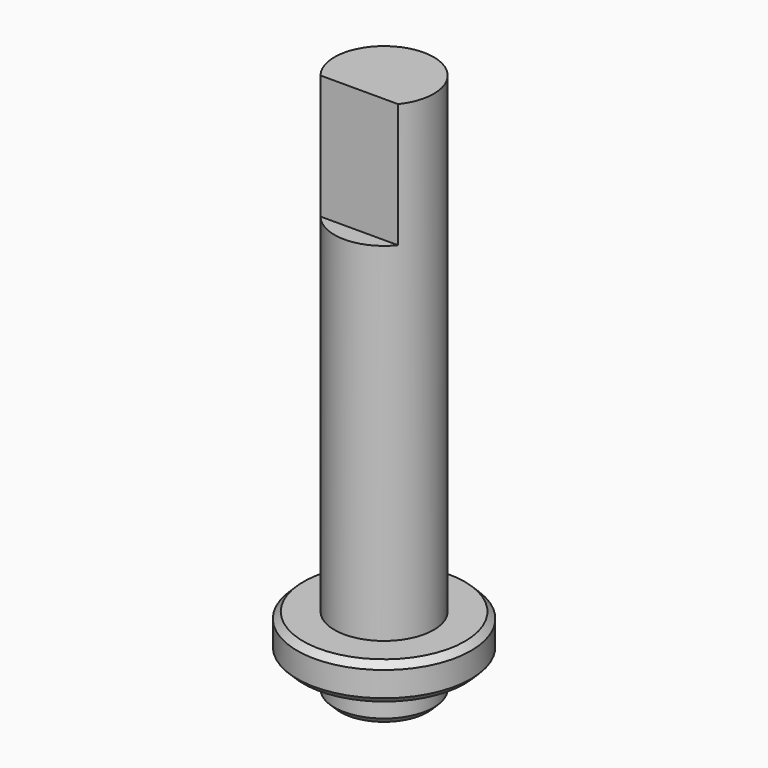
from build123d import *

# Parameters (mm, degrees)
F0_R     = 4
F1_DEPTH = 41
F2_DEPTH = 3
F0_R_2   = 7
F3_DEPTH = 3
F5_DEPTH = 10
F6_SIZE2 = 0.5
F6_SIZE  = 0.5
F7_SIZE2 = 0.5
F7_SIZE  = 0.5
F8_SIZE2 = 0.5
F8_SIZE  = 0.5


with BuildPart() as f1:
    # F0 (on Top) → F1 (new body)
    with BuildSketch(Plane.XY):
        Circle(F0_R)
    extrude(amount=F1_DEPTH)

    # F0 (on Top) → F2 (join)
    with BuildSketch(Plane.XY):
        Circle(F0_R)
    extrude(amount=-F2_DEPTH)

    # F0 (on Top) → F3 (join)
    with BuildSketch(Plane.XY):
        Circle(F0_R_2)
        Circle(F0_R, mode=Mode.SUBTRACT)
    extrude(amount=F3_DEPTH)

    # F4 (on face) → F5 (cut)
    with BuildSketch(Plane.XY.offset(41)):
        Polygon((4.573411, -5.26242), (4.573411, -2.5), (0, -2.5), (-4.510589, -2.5), (-4.510589, -5.26242), align=None)
    extrude(amount=-F5_DEPTH, mode=Mode.SUBTRACT)

    # F6
    f6_edges = [f1.edges().sort_by_distance(p)[0] for p in [
        (-7, 0, 3),
    ]]
    chamfer(f6_edges, length=F6_SIZE, length2=F6_SIZE2)

    # F7
    f7_edges = [f1.edges().sort_by_distance(p)[0] for p in [
        (-7, 0, 0),
    ]]
    chamfer(f7_edges, length=F7_SIZE, length2=F7_SIZE2)

    # F8
    f8_edges = [f1.edges().sort_by_distance(p)[0] for p in [
        (-4, 0, -3),
    ]]
    chamfer(f8_edges, length=F8_SIZE, length2=F8_SIZE2)


solid = f1.part
